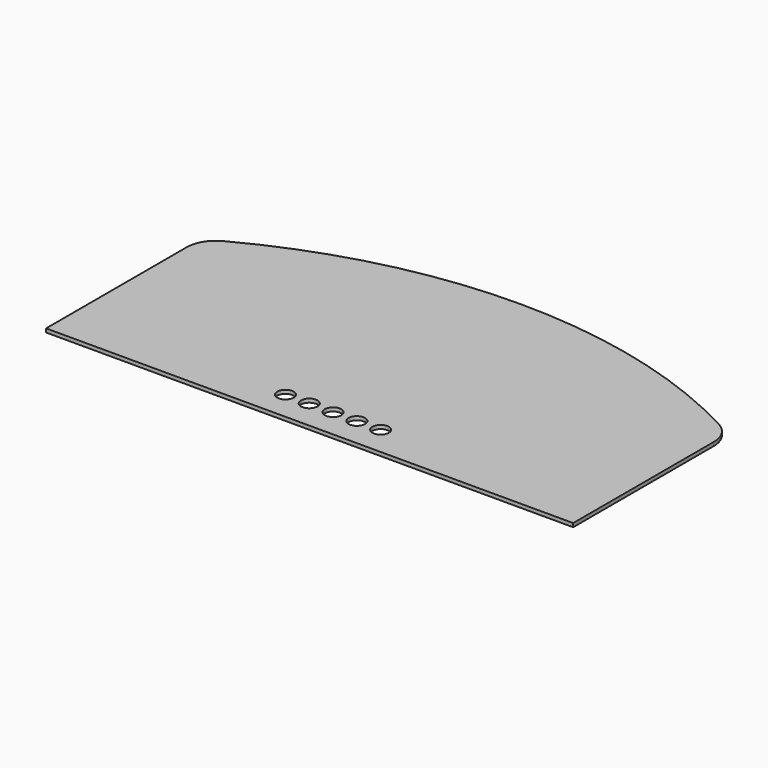
from build123d import *

# Parameters (mm, degrees)
F1_DEPTH = 6.35
F3_D     = 28.575


with BuildPart() as f1:
    # F0 (on Top) → F1 (new body)
    with BuildSketch(Plane.XY):
        with BuildLine():
            Line((-914.4, 0), (0, 0))
            Line((0, 0), (0, 304.8))
            ThreePointArc((0, 304.8), (-7.2393593738, 330.9363843757), (-26.8941176471, 349.6235294118))
            ThreePointArc((-26.8941176471, 349.6235294118), (-457.2, 457.2), (-887.5058823529, 349.6235294118))
            ThreePointArc((-887.5058823529, 349.6235294118), (-907.1606406262, 330.9363843757), (-914.4, 304.8))
            Line((-914.4, 304.8), (-914.4, 0))
        make_face()
    extrude(amount=F1_DEPTH)

    # F3 (through all)
    with Locations(Plane(origin=(0, 0, 0), x_dir=(1, 0, 0), z_dir=(0, 0, -1))):
        with Locations((-415.925, -50.8), (-374.65, -50.8), (-457.2, -50.8), (-498.475, -50.8), (-539.75, -50.8)):
            Hole(F3_D / 2)


solid = f1.part
